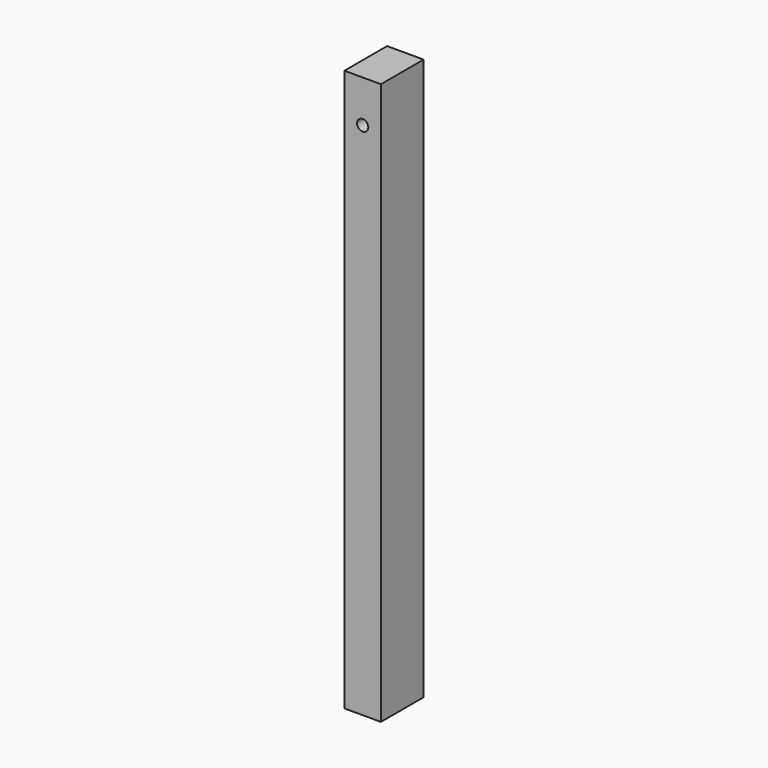
from build123d import *

# Parameters (mm, degrees)
F1_DEPTH = 2000
F3_D     = 40
F3_DEPTH = 100
F3_TIP   = 12.0172123806
F5_D     = 40
F5_DEPTH = 50
F5_TIP   = 12.0172123806


with BuildPart() as f1:
    # F0 (on Top) → F1 (new body)
    with BuildSketch(Plane.XY):
        Polygon((-34.2555230263, 181.6535690603), (-65, 181.6535690603), (-65, -8.3464309397), (65, -8.3464309397), (65, 181.6535690603), (34.2555230263, 181.6535690603), align=None)
    extrude(amount=F1_DEPTH)

    # F3
    with Locations(Plane.XZ.offset(8.3464309397)):
        with Locations((0, 1850)):
            Hole(F3_D / 2, depth=F3_DEPTH)
            with Locations((0, 0, -(F3_DEPTH + F3_TIP / 2))):  # 118° drill point
                Cone(0, F3_D / 2, F3_TIP, mode=Mode.SUBTRACT)

    # F5
    with Locations(Plane(origin=(-65, 0, 0), x_dir=(0, -1, 0), z_dir=(-1, 0, 0))):
        with Locations((-86.6535690603, 1750)):
            Hole(F5_D / 2, depth=F5_DEPTH)
            with Locations((0, 0, -(F5_DEPTH + F5_TIP / 2))):  # 118° drill point
                Cone(0, F5_D / 2, F5_TIP, mode=Mode.SUBTRACT)


solid = f1.part
